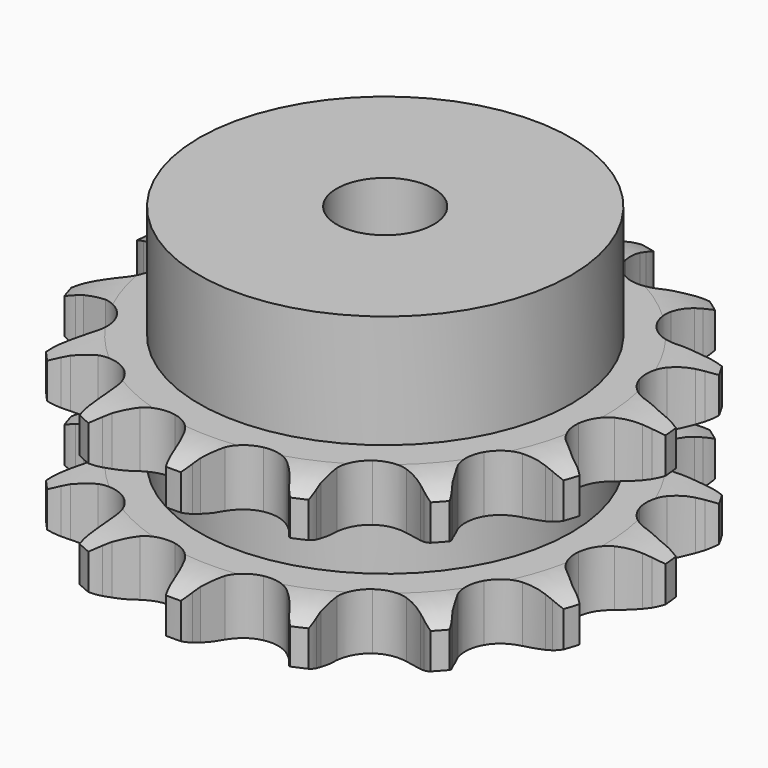
from build123d import *

# Parameters (mm, degrees)
PAD_DEPTH         = 21
SKETCH001_R       = 23
PAD001_DEPTH      = 35
SKETCH002_R       = 6
POCKET_DEPTH      = 0.001
POCKET_DEPTH_BACK = 35.001


with BuildPart() as part:
    # Sprocket → Pad (new body)
    with BuildSketch(Plane.XY):
        with BuildLine():
            ThreePointArc((-7.127097, 33.530356), (-6.027349, 32.389939), (-5.208009, 31.033962))
            Line((-5.208009, 31.033962), (-4.811253, 30.172674))
            ThreePointArc((-4.811253, 30.172674), (-4.15519, 28.954231), (-3.352899, 27.826689))
            ThreePointArc((-3.352899, 27.826689), (-1.857386, 26.647722), (0, 26.227438))
            ThreePointArc((0, 26.227438), (1.857386, 26.647722), (3.352899, 27.826689))
            ThreePointArc((3.352899, 27.826689), (4.15519, 28.954231), (4.811253, 30.172674))
            Line((4.811253, 30.172674), (5.208009, 31.033962))
            ThreePointArc((5.208009, 31.033962), (6.027349, 32.389939), (7.127097, 33.530356))
            ThreePointArc((7.127097, 33.530356), (7.667917, 32.041226), (7.864897, 30.469223))
            Line((7.864897, 30.469223), (7.877034, 29.521022))
            ThreePointArc((7.877034, 29.521022), (7.980792, 28.141074), (8.255108, 26.784692))
            ThreePointArc((8.255108, 26.784692), (9.141798, 25.099372), (10.66766, 23.959957))
            ThreePointArc((10.66766, 23.959957), (12.535412, 23.588438), (14.38116, 24.057198))
            Line((14.38116, 24.057198), (16.667631, 25.607196))
            ThreePointArc((16.667631, 25.607196), (17.017348, 25.927521), (17.380402, 26.232647))
            ThreePointArc((17.380402, 26.232647), (18.680433, 27.138138), (20.148952, 27.732653))
            ThreePointArc((20.148952, 27.732653), (20.037332, 26.152293), (19.57789, 24.636078))
            Line((19.57789, 24.636078), (19.20331, 23.764918))
            ThreePointArc((19.20331, 23.764918), (18.736823, 22.46207), (18.435732, 21.111379))
            ThreePointArc((18.435732, 21.111379), (18.560282, 19.211113), (19.490785, 17.549582))
            ThreePointArc((19.490785, 17.549582), (21.045951, 16.450499), (22.922787, 16.128))
            Line((22.922787, 16.128), (25.642023, 16.614002))
            ThreePointArc((25.642023, 16.614002), (26.091794, 16.76439), (26.547566, 16.895469))
            ThreePointArc((26.547566, 16.895469), (28.1035, 17.193906), (29.686869, 17.139722))
            ThreePointArc((29.686869, 17.139722), (28.942109, 15.741392), (27.905688, 14.543132))
            Line((27.905688, 14.543132), (27.209159, 13.899643))
            ThreePointArc((27.209159, 13.899643), (26.253086, 12.89917), (25.428651, 11.787716))
            ThreePointArc((25.428651, 11.787716), (24.769525, 10.001078), (24.943776, 8.104724))
            ThreePointArc((24.943776, 8.104724), (25.917453, 6.46812), (27.500857, 5.410123))
            Line((27.500857, 5.410123), (30.182677, 4.748095))
            ThreePointArc((30.182677, 4.748095), (30.654731, 4.702544), (31.124415, 4.636911))
            ThreePointArc((31.124415, 4.636911), (32.667216, 4.276692), (34.091658, 3.583178))
            ThreePointArc((34.091658, 3.583178), (32.842533, 2.60866), (31.40834, 1.935546))
            Line((31.40834, 1.935546), (30.510298, 1.630994))
            ThreePointArc((30.510298, 1.630994), (29.229953, 1.105886), (28.024725, 0.425851))
            ThreePointArc((28.024725, 0.425851), (26.695892, -0.938234), (26.083761, -2.741514))
            ThreePointArc((26.083761, -2.741514), (26.307593, -4.632657), (27.323778, -6.243213))
            Line((27.323778, -6.243213), (29.504472, -7.9388))
            ThreePointArc((29.504472, -7.9388), (29.917188, -8.172415), (30.319569, -8.423411))
            ThreePointArc((30.319569, -8.423411), (31.582474, -9.380002), (32.601689, -10.592931))
            ThreePointArc((32.601689, -10.592931), (31.064185, -10.975132), (29.480204, -11.006713))
            Line((29.480204, -11.006713), (28.535929, -10.919669))
            ThreePointArc((28.535929, -10.919669), (27.152695, -10.878616), (25.775069, -11.009649))
            ThreePointArc((25.775069, -11.009649), (24.006297, -11.715317), (22.713628, -13.113719))
            ThreePointArc((22.713628, -13.113719), (22.148911, -14.932405), (22.42217, -16.81704))
            Line((22.42217, -16.81704), (23.724676, -19.253005))
            ThreePointArc((23.724676, -19.253005), (24.00669, -19.634289), (24.272195, -20.027249))
            ThreePointArc((24.272195, -20.027249), (25.036836, -21.414807), (25.474591, -22.937425))
            ThreePointArc((25.474591, -22.937425), (23.914557, -22.661224), (22.454672, -22.045812))
            Line((22.454672, -22.045812), (21.627439, -21.582222))
            ThreePointArc((21.627439, -21.582222), (20.380489, -20.982106), (19.06867, -20.54148))
            ThreePointArc((19.06867, -20.54148), (17.165795, -20.466715), (15.416101, -21.218443))
            ThreePointArc((15.416101, -21.218443), (14.160481, -22.650204), (13.643565, -24.483049))
            Line((13.643565, -24.483049), (13.842667, -27.23819))
            ThreePointArc((13.842667, -27.23819), (13.945218, -27.701216), (14.027938, -28.168193))
            ThreePointArc((14.027938, -28.168193), (14.162101, -29.746799), (13.942706, -31.31583))
            ThreePointArc((13.942706, -31.31583), (12.629885, -30.428985), (11.546525, -29.272989))
            Line((11.546525, -29.272989), (10.979368, -28.513013))
            ThreePointArc((10.979368, -28.513013), (10.084312, -27.4576), (9.065124, -26.521502))
            ThreePointArc((9.065124, -26.521502), (7.357171, -25.679233), (5.452991, -25.654306))
            ThreePointArc((5.452991, -25.654306), (3.723575, -26.451577), (2.505864, -27.915716))
            Line((2.505864, -27.915716), (1.567136, -30.513645))
            ThreePointArc((1.567136, -30.513645), (1.472491, -30.978351), (1.358122, -31.438601))
            ThreePointArc((1.358122, -31.438601), (0.83861, -32.935298), (0, -34.279444))
            ThreePointArc((0, -34.279444), (-0.83861, -32.935298), (-1.358122, -31.438601))
            Line((-1.358122, -31.438601), (-1.567136, -30.513645))
            ThreePointArc((-1.567136, -30.513645), (-1.955535, -29.185425), (-2.505864, -27.915716))
            ThreePointArc((-2.505864, -27.915716), (-3.723575, -26.451577), (-5.452991, -25.654306))
            ThreePointArc((-5.452991, -25.654306), (-7.357171, -25.679233), (-9.065124, -26.521502))
            Line((-9.065124, -26.521502), (-10.979368, -28.513013))
            ThreePointArc((-10.979368, -28.513013), (-11.254843, -28.899048), (-11.546525, -29.272989))
            ThreePointArc((-11.546525, -29.272989), (-12.629885, -30.428985), (-13.942706, -31.31583))
            ThreePointArc((-13.942706, -31.31583), (-14.162101, -29.746799), (-14.027938, -28.168193))
            Line((-14.027938, -28.168193), (-13.842667, -27.23819))
            ThreePointArc((-13.842667, -27.23819), (-13.657251, -25.866824), (-13.643565, -24.483049))
            ThreePointArc((-13.643565, -24.483049), (-14.160481, -22.650204), (-15.416101, -21.218443))
            ThreePointArc((-15.416101, -21.218443), (-17.165795, -20.466715), (-19.06867, -20.54148))
            Line((-19.06867, -20.54148), (-21.627439, -21.582222))
            ThreePointArc((-21.627439, -21.582222), (-22.036113, -21.822837), (-22.454672, -22.045812))
            ThreePointArc((-22.454672, -22.045812), (-23.914557, -22.661224), (-25.474591, -22.937425))
            ThreePointArc((-25.474591, -22.937425), (-25.036836, -21.414807), (-24.272195, -20.027249))
            Line((-24.272195, -20.027249), (-23.724676, -19.253005))
            ThreePointArc((-23.724676, -19.253005), (-22.997505, -18.075615), (-22.42217, -16.81704))
            ThreePointArc((-22.42217, -16.81704), (-22.148911, -14.932405), (-22.713628, -13.113719))
            ThreePointArc((-22.713628, -13.113719), (-24.006297, -11.715317), (-25.775069, -11.009649))
            Line((-25.775069, -11.009649), (-28.535929, -10.919669))
            ThreePointArc((-28.535929, -10.919669), (-29.007138, -10.973259), (-29.480204, -11.006713))
            ThreePointArc((-29.480204, -11.006713), (-31.064185, -10.975132), (-32.601689, -10.592931))
            ThreePointArc((-32.601689, -10.592931), (-31.582474, -9.380002), (-30.319569, -8.423411))
            Line((-30.319569, -8.423411), (-29.504472, -7.9388))
            ThreePointArc((-29.504472, -7.9388), (-28.361282, -7.158968), (-27.323778, -6.243213))
            ThreePointArc((-27.323778, -6.243213), (-26.307593, -4.632657), (-26.083761, -2.741514))
            ThreePointArc((-26.083761, -2.741514), (-26.695892, -0.938234), (-28.024725, 0.425851))
            Line((-28.024725, 0.425851), (-30.510298, 1.630994))
            ThreePointArc((-30.510298, 1.630994), (-30.962566, 1.773695), (-31.40834, 1.935546))
            ThreePointArc((-31.40834, 1.935546), (-32.842533, 2.60866), (-34.091658, 3.583178))
            ThreePointArc((-34.091658, 3.583178), (-32.667216, 4.276692), (-31.124415, 4.636911))
            Line((-31.124415, 4.636911), (-30.182677, 4.748095))
            ThreePointArc((-30.182677, 4.748095), (-28.821135, 4.995529), (-27.500857, 5.410123))
            ThreePointArc((-27.500857, 5.410123), (-25.917453, 6.46812), (-24.943776, 8.104724))
            ThreePointArc((-24.943776, 8.104724), (-24.769525, 10.001078), (-25.428651, 11.787716))
            Line((-25.428651, 11.787716), (-27.209159, 13.899643))
            ThreePointArc((-27.209159, 13.899643), (-27.564285, 14.213961), (-27.905688, 14.543132))
            ThreePointArc((-27.905688, 14.543132), (-28.942109, 15.741392), (-29.686869, 17.139722))
            ThreePointArc((-29.686869, 17.139722), (-28.1035, 17.193906), (-26.547566, 16.895469))
            Line((-26.547566, 16.895469), (-25.642023, 16.614002))
            ThreePointArc((-25.642023, 16.614002), (-24.297552, 16.286255), (-22.922787, 16.128))
            ThreePointArc((-22.922787, 16.128), (-21.045951, 16.450499), (-19.490785, 17.549582))
            ThreePointArc((-19.490785, 17.549582), (-18.560282, 19.211113), (-18.435732, 21.111379))
            Line((-18.435732, 21.111379), (-19.20331, 23.764918))
            ThreePointArc((-19.20331, 23.764918), (-19.399888, 24.196504), (-19.57789, 24.636078))
            ThreePointArc((-19.57789, 24.636078), (-20.037332, 26.152293), (-20.148952, 27.732653))
            ThreePointArc((-20.148952, 27.732653), (-18.680433, 27.138138), (-17.380402, 26.232647))
            Line((-17.380402, 26.232647), (-16.667631, 25.607196))
            ThreePointArc((-16.667631, 25.607196), (-15.572701, 24.760939), (-14.38116, 24.057198))
            ThreePointArc((-14.38116, 24.057198), (-12.535412, 23.588438), (-10.66766, 23.959957))
            ThreePointArc((-10.66766, 23.959957), (-9.141798, 25.099372), (-8.255108, 26.784692))
            Line((-8.255108, 26.784692), (-7.877034, 29.521022))
            ThreePointArc((-7.877034, 29.521022), (-7.881075, 29.995252), (-7.864897, 30.469223))
            ThreePointArc((-7.864897, 30.469223), (-7.667917, 32.041226), (-7.127097, 33.530356))
        make_face()
    extrude(amount=PAD_DEPTH)

    # Sketch → Groove (revolve, cut)
    with BuildSketch(Plane.XZ):
        with BuildLine():
            ThreePointArc((27.083431, 0), (29.99032, 0.329167), (32.75, 1.3))
            Line((32.75, 1.3), (32.75, 5.7))
            ThreePointArc((32.75, 5.7), (29.99032, 6.670833), (27.083431, 7))
            Line((23, 7), (27.083431, 7))
            Line((23, 14), (23, 7))
            Line((27.083431, 14), (23, 14))
            ThreePointArc((27.083431, 14), (29.99032, 14.329167), (32.75, 15.3))
            Line((32.75, 15.3), (32.75, 19.7))
            ThreePointArc((32.75, 19.7), (29.99032, 20.670833), (27.083431, 21))
            Line((27.083431, 21), (37.083431, 21))
            Line((37.083431, 21), (37.083431, 0))
            Line((27.083431, 0), (37.083431, 0))
        make_face()
    revolve(axis=Axis((0, 0, 0), (0, 0, 1)), mode=Mode.SUBTRACT)

    # Sketch001 → Pad001 (join)
    with BuildSketch(Plane.XY):
        Circle(SKETCH001_R)
    extrude(amount=PAD001_DEPTH)

    # Sketch002 → Pocket (cut, two sides)
    with BuildSketch(Plane.XY) as pocket_sk:
        Circle(SKETCH002_R)
    extrude(amount=-POCKET_DEPTH, mode=Mode.SUBTRACT)
    extrude(pocket_sk.sketch, amount=POCKET_DEPTH_BACK, mode=Mode.SUBTRACT)


solid = part.part
